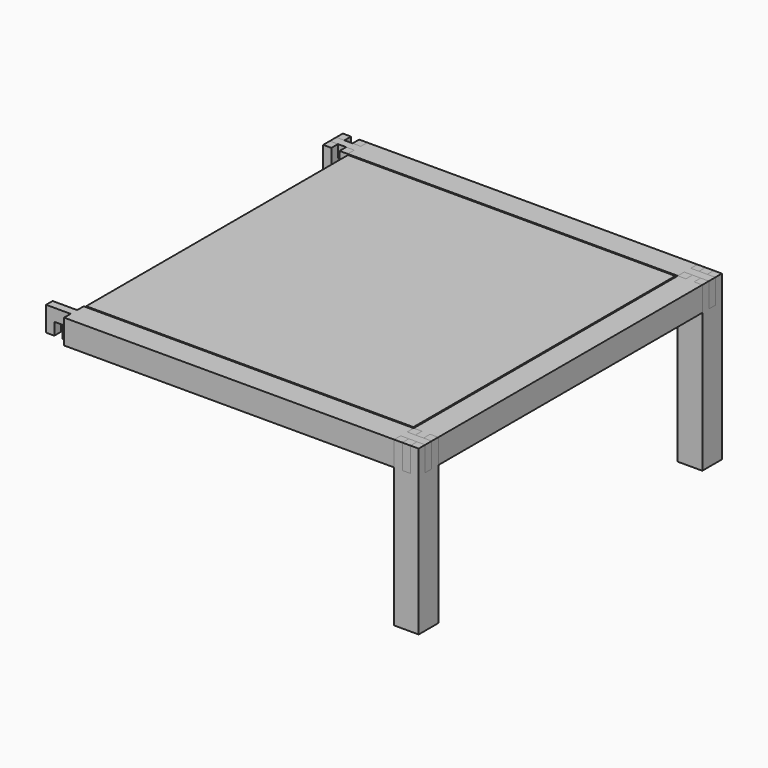
from build123d import *

# Parameters (mm, degrees)
SKETCH009_W              = 600
SKETCH009_H              = 600
PAD004_DEPTH             = 9
SKETCH_W                 = 45
SKETCH_H                 = 45
PAD_DEPTH                = 300
POCKET_DEPTH             = 45
PAD001_DEPTH             = 45
SKETCH003_W              = 15
SKETCH003_H              = 22.5
POCKET001_DEPTH          = 45.001
PAD005_DEPTH             = 41
CLONE006_PLACEMENT_ANGLE = 180
CLONE007_PLACEMENT_ANGLE = 90
CLONE008_PLACEMENT_ANGLE = 90
CLONE_ROLL_ANGLE         = 180
CLONE_PLACEMENT_ANGLE    = 90
CLONE009_ROLL_ANGLE      = 180
CLONE009_PLACEMENT_ANGLE = 90


with BuildPart() as obj1:
    # Sketch009 → Pad004 (new body)
    with BuildSketch(Plane.XY.offset(291)):
        with Locations((325, 325)):
            Rectangle(SKETCH009_W, SKETCH009_H)
    extrude(amount=PAD004_DEPTH)


with BuildPart() as obj2:
    # Sketch → Pad (new body)
    with BuildSketch(Plane.XY):
        Rectangle(SKETCH_W, SKETCH_H)
    extrude(amount=PAD_DEPTH)

    # Sketch001 (on Face6 of Pad) → Pocket (cut)
    with BuildSketch(Plane.XY.offset(300)):
        Polygon((-7.5, 22.5), (7.5, 22.5), (7.5, 7.5), (22.5, 7.5), (22.5, -7.5), (7.5, -7.5), (7.5, -22.5), (-7.5, -22.5), (-7.5, -7.5), (-22.5, -7.5), (-22.5, 7.5), (-7.5, 7.5), align=None)
    extrude(amount=-POCKET_DEPTH, mode=Mode.SUBTRACT)


with BuildPart() as obj3:
    # Body036 base: copy of obj2
    add(obj2.part)


with BuildPart() as obj3_1:
    # Clone001 placement: moved
    add(obj3.part.moved(Location((0, 650, 0))))


with BuildPart() as obj4:
    # Body037 base: copy of obj2
    add(obj2.part)


with BuildPart() as obj4_1:
    # Clone002 placement: moved
    add(obj4.part.moved(Location((650, 0, 0))))


with BuildPart() as obj5:
    # Body038 base: copy of obj2
    add(obj2.part)


with BuildPart() as obj5_1:
    # Clone003 placement: moved
    add(obj5.part.moved(Location((650, 650, 0))))


with BuildPart() as short01:
    # Sketch002 → Pad001 (new body)
    with BuildSketch(Plane.XY.offset(255)):
        Polygon((-7.5, 672.5), (7.5, 672.5), (7.5, 627.5), (22.5, 627.5), (22.5, 22.5), (7.5, 22.5), (7.5, -22.5), (-7.5, -22.5), (-7.5, 22.5), (-22.5, 22.5), (-22.5, 627.5), (-7.5, 627.5), align=None)
    extrude(amount=PAD001_DEPTH)

    # Sketch003 (on Face4 of Pad001) → Pocket001 (cut, through all)
    with BuildSketch(Plane.YZ.offset(22.5)):
        with Locations((0, 288.75)):
            Rectangle(SKETCH003_W, SKETCH003_H)
        with Locations((650, 288.75)):
            Rectangle(SKETCH003_W, SKETCH003_H)
    extrude(amount=-POCKET001_DEPTH, mode=Mode.SUBTRACT)


with BuildPart() as short02:
    # Body039 base: copy of short01
    add(short01.part)


with BuildPart() as short02_1:
    # Clone004 placement: moved
    add(short02.part.moved(Location((650, 0, 0))))


with BuildPart() as support01:
    # Sketch010 → Pad005 (new body)
    with BuildSketch(Plane.XY.offset(291)):
        Polygon((22.5, 627.5), (22.5, 22.5), (41.5, 41.5), (41.5, 608.5), align=None)
    extrude(amount=-PAD005_DEPTH)


with BuildPart() as support02:
    # Body041 base: copy of support01
    add(support01.part)


with BuildPart() as support02_1:
    # Clone006 placement: moved
    add(support02.part.moved(Location((650, 650, 0))).rotate(Axis((650, 650, 0), (0, 0, 1)), CLONE006_PLACEMENT_ANGLE))


with BuildPart() as support03:
    # Body042 base: copy of support01
    add(support01.part)


with BuildPart() as support03_1:
    # Clone007 placement: moved
    add(support03.part.moved(Location((650, 0, 0))).rotate(Axis((650, 0, 0), (0, 0, 1)), CLONE007_PLACEMENT_ANGLE))


with BuildPart() as support04:
    # Body043 base: copy of support01
    add(support01.part)


with BuildPart() as support04_1:
    # Clone008 placement: moved
    add(support04.part.moved(Location((5, 650, 0))).rotate(Axis((5, 650, 0), (0, 0, -1)), CLONE008_PLACEMENT_ANGLE))


with BuildPart() as short03:
    # Body044 base: copy of short01
    add(short01.part)


with BuildPart() as short03_1:
    # Clone roll: moved
    add(short03.part.rotate(Axis((0, 0, 0), (1, 0, 0)), CLONE_ROLL_ANGLE))


with BuildPart() as short03_2:
    # Clone placement: moved
    add(short03_1.part.moved(Location((0, 0, 555))).rotate(Axis((0, 0, 555), (0, 0, 1)), CLONE_PLACEMENT_ANGLE))


with BuildPart() as short04:
    # Body045 base: copy of short01
    add(short01.part)


with BuildPart() as short04_1:
    # Clone009 roll: moved
    add(short04.part.rotate(Axis((0, 0, 0), (1, 0, 0)), CLONE009_ROLL_ANGLE))


with BuildPart() as short04_2:
    # Clone009 placement: moved
    add(short04_1.part.moved(Location((0, 650, 555))).rotate(Axis((0, 650, 555), (0, 0, 1)), CLONE009_PLACEMENT_ANGLE))


solid = Compound([obj1.part, obj3_1.part, obj4_1.part, obj5_1.part, short02_1.part, support02_1.part, support03_1.part, support04_1.part, short03_2.part, short04_2.part])
